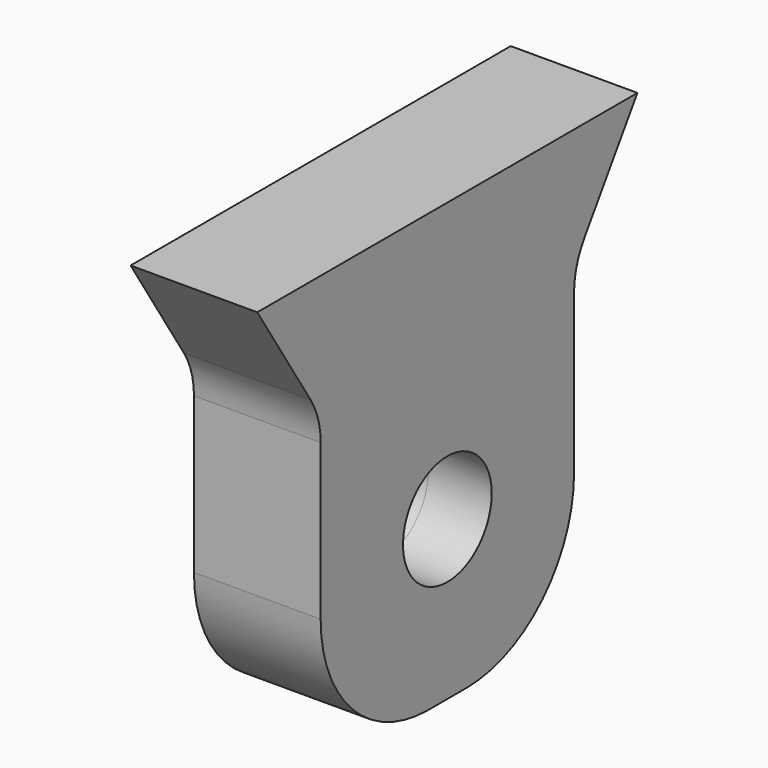
from build123d import *

# Parameters (mm, degrees)
F0_R          = 3.5
F1_DEPTH      = 4
F1_DEPTH_BACK = 4


with BuildPart() as f1:
    # F0 (on Right) → F1 (new body, two sides)
    with BuildSketch(Plane.YZ) as f1_sk:
        with BuildLine():
            Line((-20.266165, 46.737653), (-50.266165, 46.737653))
            Line((-50.266165, 46.737653), (-46.05444, 40.154854))
            ThreePointArc((-46.05444, 40.154854), (-45.467278, 38.863972), (-45.266165, 37.460161))
            Line((-45.266165, 37.460161), (-45.266165, 27.645153))
            ThreePointArc((-45.266165, 27.645153), (-42.776573, 21.634746), (-36.766165, 19.145153))
            Line((-36.766165, 19.145153), (-33.766165, 19.145153))
            ThreePointArc((-33.766165, 19.145153), (-27.755757, 21.634746), (-25.266165, 27.645153))
            Line((-25.266165, 27.645153), (-25.266165, 37.646666))
            ThreePointArc((-25.266165, 37.646666), (-25.055695, 39.082076), (-24.442004, 40.396642))
            Line((-24.442004, 40.396642), (-20.266165, 46.737653))
        make_face()
        with Locations((-35.266165, 29.145153)):
            Circle(F0_R, mode=Mode.SUBTRACT)
    extrude(amount=F1_DEPTH)
    extrude(f1_sk.sketch, amount=-F1_DEPTH_BACK)


solid = f1.part
